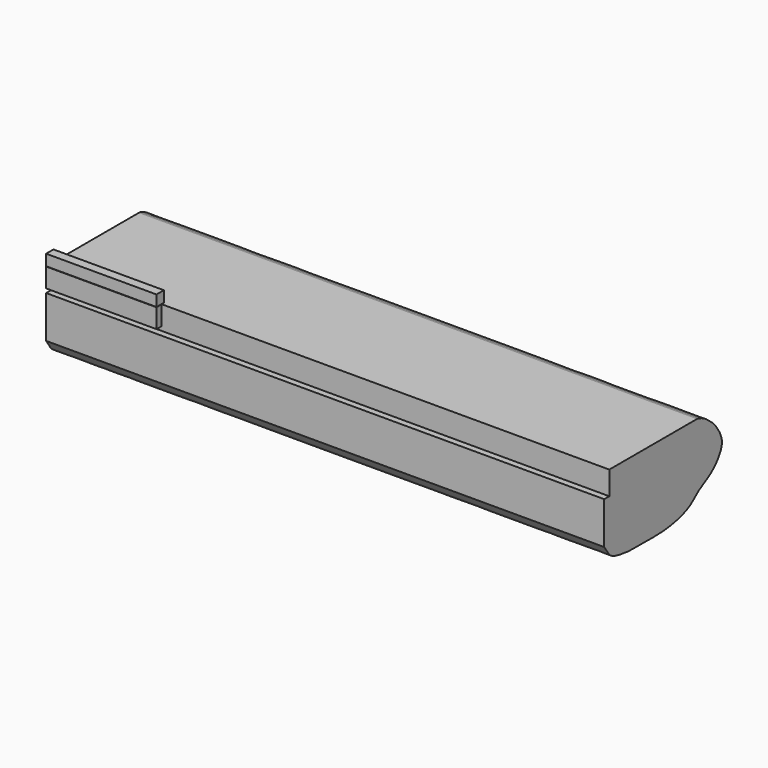
from build123d import *

# Parameters (mm, degrees)
F0_W     = 150
F0_H     = 180
F2_DEPTH = 1800
F1_W     = 101.5273034573
F1_H     = 313.8310611248
F3_DEPTH = 1800
F5_DEPTH = 9100


with BuildPart() as f2:
    # F0 (on Right) → F2 (new body)
    with BuildSketch(Plane.YZ):
        with Locations((75, -379.1194679699)):
            Rectangle(F0_W, F0_H)
    extrude(amount=F2_DEPTH)


with BuildPart() as f3:
    # F1 (on Right) → F3 (new body)
    with BuildSketch(Plane.YZ):
        with Locations((50.7636517286, -630.5923610926)):
            Rectangle(F1_W, F1_H)
    extrude(amount=F3_DEPTH)


with BuildPart() as f5:
    # F4 (on Right) → F5 (new body)
    with BuildSketch(Plane.YZ):
        with BuildLine():
            Line((1892.8797360895, -470.7551300526), (103.3653095365, -470.7551300526))
            Line((103.3653095365, -470.7551300526), (103.3653095365, -853.7938594818))
            Line((103.3653095365, -853.7938594818), (0, -853.7938594818))
            Line((0, -853.7938594818), (0, -1540.5761003494))
            add(Edge.make_bspline(
                [(1923.7091770953, -475.6260305758), (2021.9512276147, -507.4643168356), (2114.6007561157, -574.5791921256), (2249.4279442365, -688.1869419876), (2373.689926805, -869.3452291568), (2422.473149728, -1054.9374831824), (2294.9004643375, -1264.5787956653), (2129.584685818, -1405.8258208718), (1905.6214540672, -1507.908233405), (1729.6425266662, -1710.9073670417), (1220.5242073932, -1821.0436072173), (783.690356481, -1798.497289961), (533.4726392689, -1811.6214951257), (290.8362151937, -1780.3357721623), (124.6406409215, -1728.1579217684), (71.3329574678, -1646.7422520232), (24.26819364, -1576.7017946172), (0, -1540.5761003494)],
                knots=[0.0033219062, 0.0033219062, 0.0033219062, 0.0033219062, 0.0680592667, 0.1252175941, 0.1901994824, 0.2493596167, 0.3159739851, 0.3815235111, 0.4491424894, 0.5199617022, 0.6195594363, 0.7128235923, 0.7823840817, 0.8513461576, 0.9078907149, 0.9500859275, 1, 1, 1, 1], degree=3))
            ThreePointArc((1923.7091770953, -475.6260305758), (1908.4856652883, -471.9803611394), (1892.8797360895, -470.7551300526))
        make_face()
    extrude(amount=F5_DEPTH)


solid = Compound([f2.part, f3.part, f5.part])
